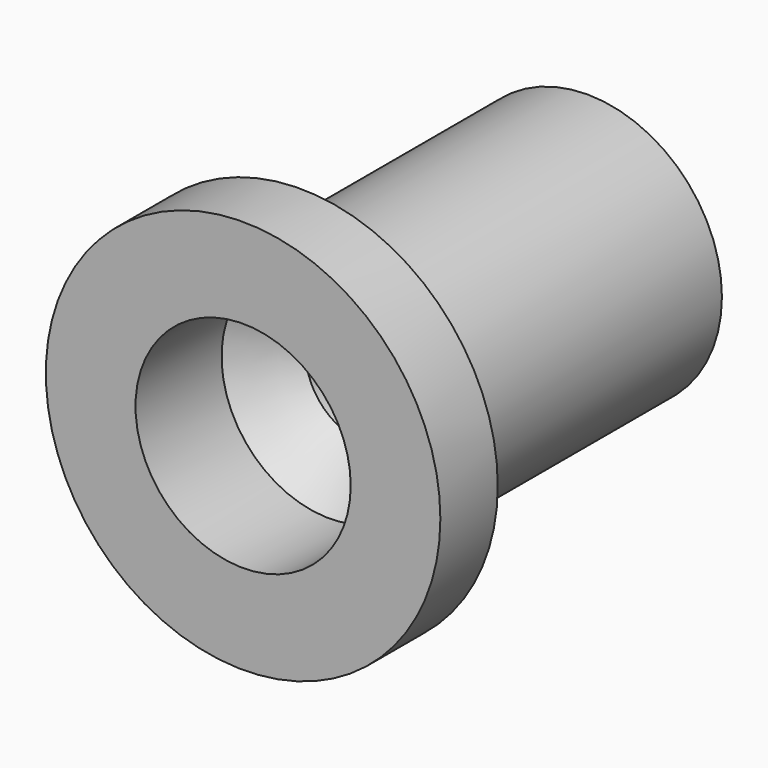
from build123d import *

# Parameters (mm, degrees)
CYLINDER100_R     = 1.7
CYLINDER100_DEPTH = 12
CYLINDER099_R     = 3
CYLINDER099_DEPTH = 3
CYLINDER098_R     = 3.75
CYLINDER098_DEPTH = 10
CYLINDER097_R     = 5.5
CYLINDER097_DEPTH = 2
CUT051_ROLL_ANGLE = -90


with BuildPart() as obj1:
    # Cylinder100 → Cylinder100 (new body)
    with BuildSketch(Plane.XY):
        Circle(CYLINDER100_R)
    extrude(amount=CYLINDER100_DEPTH)


with BuildPart() as obj2:
    # Cylinder099 → Cylinder099 (new body)
    with BuildSketch(Plane.XY):
        Circle(CYLINDER099_R)
    extrude(amount=CYLINDER099_DEPTH)


with BuildPart() as obj3:
    # Cone007 → Cone007 (revolve)
    with BuildSketch(Plane(origin=(0, 0, 3), x_dir=(1, 0, 0), z_dir=(0, -1, 0))):
        Polygon((0, 0), (3, 0), (1.7, 1.3), (0, 1.3), align=None)
    revolve(axis=Axis((0, 0, 3), (0, 0, 1)))


with BuildPart() as cylinder117:
    # Cylinder098 → Cylinder098 (new body)
    with BuildSketch(Plane.XY.offset(2)):
        Circle(CYLINDER098_R)
    extrude(amount=CYLINDER098_DEPTH)


with BuildPart() as springguide:
    # Cylinder097 → Cylinder097 (new body)
    with BuildSketch(Plane.XY):
        Circle(CYLINDER097_R)
    extrude(amount=CYLINDER097_DEPTH)

    # Fusion004: union Cylinder117
    add(cylinder117.part)

    # Cut049: cut obj3
    add(obj3.part, mode=Mode.SUBTRACT)

    # Cut050: cut obj2
    add(obj2.part, mode=Mode.SUBTRACT)

    # Cut051: cut obj1
    add(obj1.part, mode=Mode.SUBTRACT)


with BuildPart() as springguide_1:
    # Cut051 roll: moved
    add(springguide.part.rotate(Axis((0, 0, 0), (1, 0, 0)), CUT051_ROLL_ANGLE))


with BuildPart() as springguide_2:
    # Cut051 placement: moved
    add(springguide_1.part.moved(Location((19, -70, 10))))


solid = springguide_2.part
